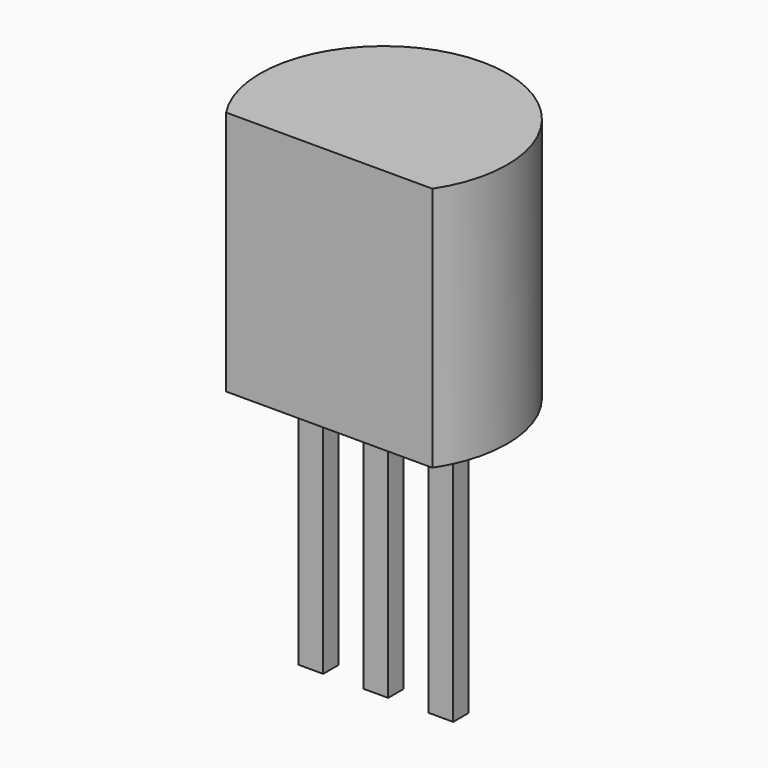
from build123d import *

# Parameters (mm, degrees)
SKETCH001_W  = 0.48
SKETCH001_H  = 0.38
PAD001_DEPTH = 5
PAD_DEPTH    = 4.8


with BuildPart() as pad001:
    # Sketch001 → Pad001 (new body)
    with BuildSketch(Plane.XY.offset(2.5)):
        Rectangle(SKETCH001_W, SKETCH001_H)
        with Locations((1.27, 0)):
            Rectangle(SKETCH001_W, SKETCH001_H)
        with Locations((2.54, 0)):
            Rectangle(SKETCH001_W, SKETCH001_H)
    extrude(amount=-PAD001_DEPTH)


with BuildPart() as to_92_inline_narrow:
    # Sketch → Pad (new body)
    with BuildSketch(Plane.XY.offset(2.5)):
        with BuildLine():
            Line((-0.745769, -1.33), (3.285769, -1.33))
            ThreePointArc((3.285769, -1.33), (1.27, 2.415), (-0.745769, -1.33))
        make_face()
    extrude(amount=PAD_DEPTH)

    add(pad001.part)


solid = to_92_inline_narrow.part
